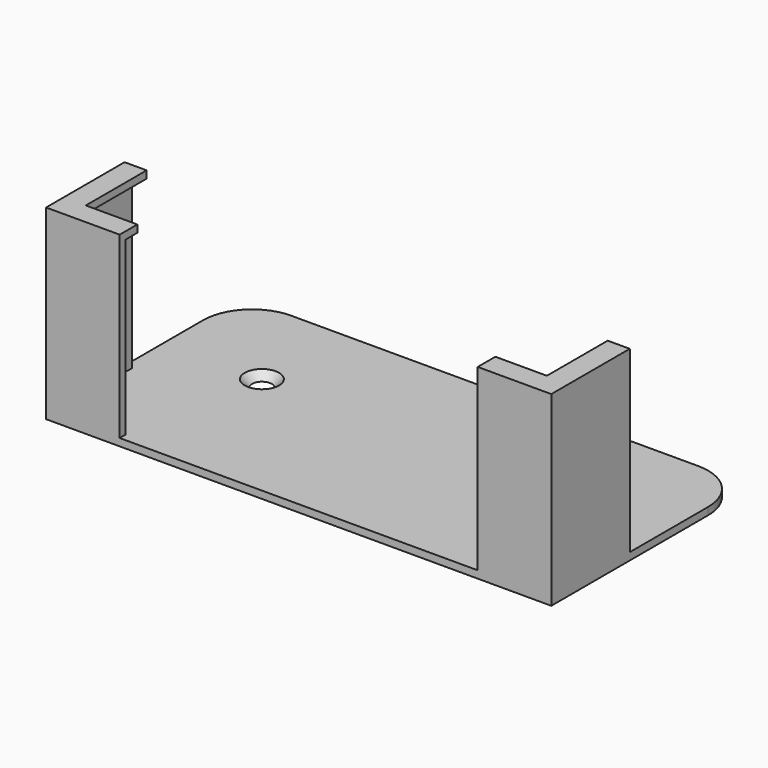
from build123d import *

# Parameters (mm, degrees)
F3_DEPTH       = 1.5
F4_DEPTH       = 38
F5_START       = 36.5
F5_DEPTH       = 1.5
F7_D           = 4
F7_CSINK_D     = 7
F7_CSINK_ANGLE = 90


with BuildPart() as f3:
    # F2 (on Top) → F3 (new body)
    with BuildSketch(Plane.XY):
        with BuildLine():
            Line((15, 1.5), (15, 0))
            Line((15, 0), (88, 0))
            Line((88, 0), (88, 1.5))
            Line((88, 1.5), (88, 4.5))
            Line((88, 4.5), (98.5, 4.5))
            Line((98.5, 4.5), (98.5, 20))
            Line((98.5, 20), (101.5, 20))
            Line((101.5, 20), (103, 20))
            Line((103, 20), (103, 40))
            ThreePointArc((103, 40), (100.0710678119, 47.0710678119), (93, 50))
            Line((93, 50), (10, 50))
            ThreePointArc((10, 50), (2.9289321881, 47.0710678119), (0, 40))
            Line((0, 40), (0, 20))
            Line((0, 20), (1.5, 20))
            Line((1.5, 20), (4.5, 20))
            Line((4.5, 20), (4.5, 4.5))
            Line((4.5, 4.5), (15, 4.5))
            Line((15, 4.5), (15, 1.5))
        make_face()
        Polygon((1.5, 1.5), (15, 1.5), (15, 4.5), (4.5, 4.5), (4.5, 20), (1.5, 20), align=None)
        Polygon((88, 4.5), (88, 1.5), (101.5, 1.5), (101.5, 20), (98.5, 20), (98.5, 4.5), align=None)
        Polygon((88, 1.5), (88, 0), (103, 0), (103, 20), (101.5, 20), (101.5, 1.5), align=None)
        Polygon((0, 20), (0, 0), (15, 0), (15, 1.5), (1.5, 1.5), (1.5, 20), align=None)
    extrude(amount=F3_DEPTH)

    # F2 (on Top) → F4 (join)
    with BuildSketch(Plane.XY):
        Polygon((0, 20), (0, 0), (15, 0), (15, 1.5), (1.5, 1.5), (1.5, 20), align=None)
        Polygon((88, 1.5), (88, 0), (103, 0), (103, 20), (101.5, 20), (101.5, 1.5), align=None)
    extrude(amount=F4_DEPTH)

    # F2 (on Top) → F5 (join)
    with BuildSketch(Plane.XY.offset(F5_START)):
        Polygon((88, 4.5), (88, 1.5), (101.5, 1.5), (101.5, 20), (98.5, 20), (98.5, 4.5), align=None)
        Polygon((1.5, 1.5), (15, 1.5), (15, 4.5), (4.5, 4.5), (4.5, 20), (1.5, 20), align=None)
    extrude(amount=F5_DEPTH)

    # F7 (through all)
    with Locations(Plane.XY.offset(1.5)):
        with Locations((20, 30), (83, 30)):
            CounterSinkHole(F7_D / 2, F7_CSINK_D / 2, counter_sink_angle=F7_CSINK_ANGLE)


solid = f3.part
